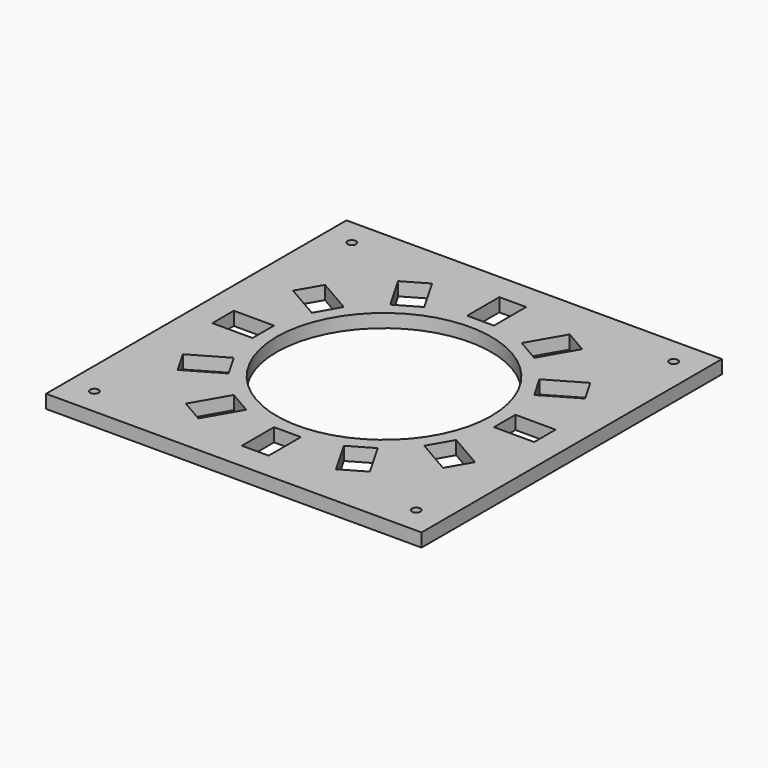
from build123d import *

# Parameters (mm, degrees)
F0_W      = 130
F0_H      = 5
F1_DEPTH  = 70
F2_W      = 140
F2_H      = 140
F3_DEPTH  = 5
F4_W      = 140
F4_H      = 140
F4_R      = 40
F5_DEPTH  = 5
F7_W      = 5
F7_H      = 15
F7_W_2    = 15
F7_H_2    = 5
F8_DEPTH  = 5
F9_W      = 140
F9_H      = 70
F10_DEPTH = 140
F11_R     = 1.6
F12_DEPTH = 5


with BuildPart() as f1:
    # F0 (on Top) → F1 (new body)
    with BuildSketch(Plane.XY):
        with Locations((0, 67.5)):
            Rectangle(F0_W, F0_H)
        Polygon((-65, -65), (-65, 65), (-65, 70), (-70, 70), (-70, -70), (-65, -70), align=None)
        Polygon((65, 70), (65, 65), (65, -65), (65, -70), (70, -70), (70, 70), align=None)
        with Locations((0, -67.5)):
            Rectangle(F0_W, F0_H)
    extrude(amount=F1_DEPTH)

    # F2 (on face) → F3 (join)
    with BuildSketch(Plane(origin=(0, 0, 0), x_dir=(1, 0, 0), z_dir=(0, 0, -1))):
        Rectangle(F2_W, F2_H)
    extrude(amount=-F3_DEPTH)

    # F4 (on face) → F5 (join)
    with BuildSketch(Plane.XY.offset(70)):
        Rectangle(F4_W, F4_H)
        Circle(F4_R, mode=Mode.SUBTRACT)
    extrude(amount=F5_DEPTH)

    # F7 (on face) → F8 (cut, through all)
    with BuildSketch(Plane.XY.offset(75)):
        Polygon((-41.471143, 18.169873), (-38.971143, 22.5), (-51.961524, 30), (-54.461524, 25.669873), align=None)
        Polygon((-51.961524, 30), (-38.971143, 22.5), (-36.471143, 26.830127), (-49.461524, 34.330127), align=None)
        with Locations((-2.5, 52.5)):
            Rectangle(F7_W, F7_H)
        with Locations((2.5, 52.5)):
            Rectangle(F7_W, F7_H)
        Polygon((51.961524, 30), (49.461524, 34.330127), (36.471143, 26.830127), (38.971143, 22.5), align=None)
        Polygon((54.461524, 25.669873), (51.961524, 30), (38.971143, 22.5), (41.471143, 18.169873), align=None)
        Polygon((-26.830127, 36.471143), (-22.5, 38.971143), (-30, 51.961524), (-34.330127, 49.461524), align=None)
        Polygon((-30, 51.961524), (-22.5, 38.971143), (-18.169873, 41.471143), (-25.669873, 54.461524), align=None)
        Polygon((51.961524, -30), (54.461524, -25.669873), (41.471143, -18.169873), (38.971143, -22.5), align=None)
        Polygon((49.461524, -34.330127), (51.961524, -30), (38.971143, -22.5), (36.471143, -26.830127), align=None)
        with Locations((-2.5, -52.5)):
            Rectangle(F7_W, F7_H)
        with Locations((2.5, -52.5)):
            Rectangle(F7_W, F7_H)
        Polygon((-51.961524, -30), (-49.461524, -34.330127), (-36.471143, -26.830127), (-38.971143, -22.5), align=None)
        Polygon((-54.461524, -25.669873), (-51.961524, -30), (-38.971143, -22.5), (-41.471143, -18.169873), align=None)
        Polygon((30, 51.961524), (25.669873, 54.461524), (18.169873, 41.471143), (22.5, 38.971143), align=None)
        Polygon((34.330127, 49.461524), (30, 51.961524), (22.5, 38.971143), (26.830127, 36.471143), align=None)
        with Locations((52.5, 2.5)):
            Rectangle(F7_W_2, F7_H_2)
        with Locations((52.5, -2.5)):
            Rectangle(F7_W_2, F7_H_2)
        Polygon((30, -51.961524), (34.330127, -49.461524), (26.830127, -36.471143), (22.5, -38.971143), align=None)
        Polygon((25.669873, -54.461524), (30, -51.961524), (22.5, -38.971143), (18.169873, -41.471143), align=None)
        Polygon((-26.830127, -36.471143), (-34.330127, -49.461524), (-30, -51.961524), (-22.5, -38.971143), align=None)
        Polygon((-22.5, -38.971143), (-30, -51.961524), (-25.669873, -54.461524), (-18.169873, -41.471143), align=None)
        with Locations((-52.5, 2.5)):
            Rectangle(F7_W_2, F7_H_2)
        with Locations((-52.5, -2.5)):
            Rectangle(F7_W_2, F7_H_2)
    extrude(amount=-F8_DEPTH, mode=Mode.SUBTRACT)

    # F9 (on face) → F10 (cut, through all)
    with BuildSketch(Plane.XZ.offset(70)):
        with Locations((0, 35)):
            Rectangle(F9_W, F9_H)
    extrude(amount=-F10_DEPTH, mode=Mode.SUBTRACT)

    # F11 (on face) → F12 (cut, through all)
    with BuildSketch(Plane.XY.offset(75)):
        with Locations((-60, -60)):
            Circle(F11_R)
        with Locations((-60, 60)):
            Circle(F11_R)
        with Locations((60, -60)):
            Circle(F11_R)
        with Locations((60, 60)):
            Circle(F11_R)
    extrude(amount=-F12_DEPTH, mode=Mode.SUBTRACT)


solid = f1.part
